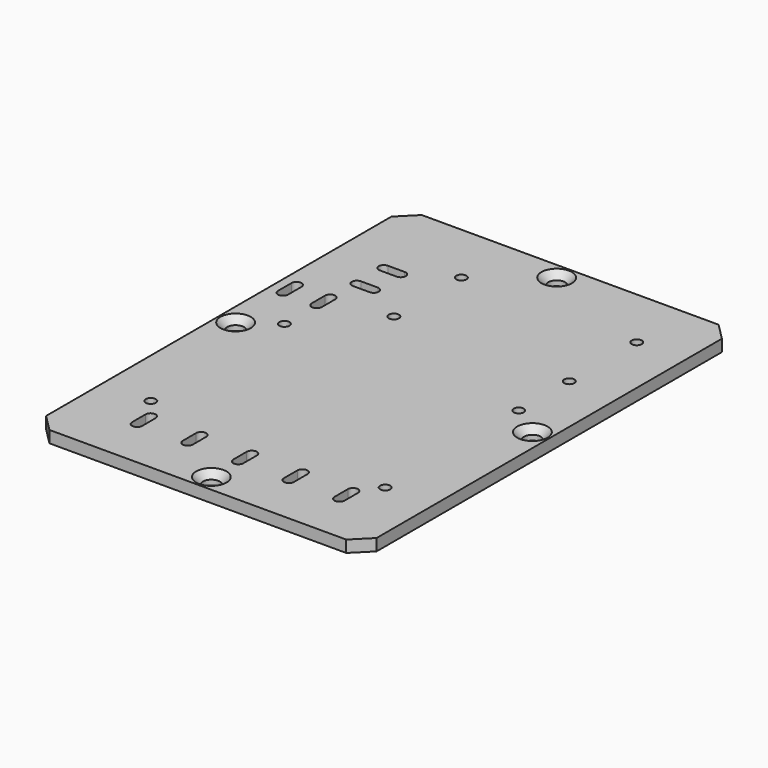
from build123d import *

# Parameters (mm, degrees)
SKETCH_R     = 1.5
SKETCH_R_2   = 2.5
PAD_DEPTH    = 3.5
CHAMFER_SIZE = 2


with BuildPart() as part:
    # Sketch → Pad (new body)
    with BuildSketch(Plane.XY):
        Polygon((-44, 69), (44, 69), (49, 64), (49, -64), (44, -69), (-44, -69), (-49, -64), (-49, 64), align=None)
        with Locations((-17.25, 50.25)):
            Circle(SKETCH_R, mode=Mode.SUBTRACT)
        with Locations((34.75, 50.25)):
            Circle(SKETCH_R, mode=Mode.SUBTRACT)
        with Locations((34.75, 25.25)):
            Circle(SKETCH_R, mode=Mode.SUBTRACT)
        with Locations((-17.25, 25.25)):
            Circle(SKETCH_R, mode=Mode.SUBTRACT)
        with Locations((-34.75, -43)):
            Circle(SKETCH_R, mode=Mode.SUBTRACT)
        with Locations((-34.75, 6.5)):
            Circle(SKETCH_R, mode=Mode.SUBTRACT)
        with Locations((34.75, 6.5)):
            Circle(SKETCH_R, mode=Mode.SUBTRACT)
        with Locations((34.75, -43)):
            Circle(SKETCH_R, mode=Mode.SUBTRACT)
        with Locations((-44, 0)):
            Circle(SKETCH_R_2, mode=Mode.SUBTRACT)
        with Locations((0, 64)):
            Circle(SKETCH_R_2, mode=Mode.SUBTRACT)
        with Locations((44, 0)):
            Circle(SKETCH_R_2, mode=Mode.SUBTRACT)
        with Locations((0, -64)):
            Circle(SKETCH_R_2, mode=Mode.SUBTRACT)
        with BuildLine():
            ThreePointArc((-28.5, -49), (-30, -47.5), (-31.5, -49))
            Line((-31.5, -49), (-31.5, -54))
            ThreePointArc((-31.5, -54), (-30, -55.5), (-28.5, -54))
            Line((-28.5, -54), (-28.5, -49))
        make_face(mode=Mode.SUBTRACT)
        with BuildLine():
            ThreePointArc((-13.5, -49), (-15, -47.5), (-16.5, -49))
            Line((-16.5, -49), (-16.5, -54))
            ThreePointArc((-16.5, -54), (-15, -55.5), (-13.5, -54))
            Line((-13.5, -54), (-13.5, -49))
        make_face(mode=Mode.SUBTRACT)
        with BuildLine():
            ThreePointArc((1.5, -49), (0, -47.5), (-1.5, -49))
            Line((-1.5, -49), (-1.5, -54))
            ThreePointArc((-1.5, -54), (0, -55.5), (1.5, -54))
            Line((1.5, -54), (1.5, -49))
        make_face(mode=Mode.SUBTRACT)
        with BuildLine():
            ThreePointArc((16.5, -49), (15, -47.5), (13.5, -49))
            Line((13.5, -49), (13.5, -54))
            ThreePointArc((13.5, -54), (15, -55.5), (16.5, -54))
            Line((16.5, -54), (16.5, -49))
        make_face(mode=Mode.SUBTRACT)
        with BuildLine():
            ThreePointArc((31.5, -49), (30, -47.5), (28.5, -49))
            Line((28.5, -49), (28.5, -54))
            ThreePointArc((28.5, -54), (30, -55.5), (31.5, -54))
            Line((31.5, -54), (31.5, -49))
        make_face(mode=Mode.SUBTRACT)
        with BuildLine():
            ThreePointArc((-34.25, 44.25), (-35.75, 42.75), (-34.25, 41.25))
            Line((-34.25, 41.25), (-29.25, 41.25))
            ThreePointArc((-29.25, 41.25), (-27.75, 42.75), (-29.25, 44.25))
            Line((-29.25, 44.25), (-34.25, 44.25))
        make_face(mode=Mode.SUBTRACT)
        with BuildLine():
            ThreePointArc((-34.25, 34.25), (-35.75, 32.75), (-34.25, 31.25))
            Line((-34.25, 31.25), (-29.25, 31.25))
            ThreePointArc((-29.25, 31.25), (-27.75, 32.75), (-29.25, 34.25))
            Line((-29.25, 34.25), (-34.25, 34.25))
        make_face(mode=Mode.SUBTRACT)
        with BuildLine():
            ThreePointArc((-43.25, 23.5), (-44.75, 25), (-46.25, 23.5))
            Line((-46.25, 23.5), (-46.25, 18.5))
            ThreePointArc((-46.25, 18.5), (-44.75, 17), (-43.25, 18.5))
            Line((-43.25, 18.5), (-43.25, 23.5))
        make_face(mode=Mode.SUBTRACT)
        with BuildLine():
            ThreePointArc((-33.25, 23.5), (-34.75, 25), (-36.25, 23.5))
            Line((-36.25, 23.5), (-36.25, 18.5))
            ThreePointArc((-36.25, 18.5), (-34.75, 17), (-33.25, 18.5))
            Line((-33.25, 18.5), (-33.25, 23.5))
        make_face(mode=Mode.SUBTRACT)
    extrude(amount=PAD_DEPTH)

    # Chamfer
    chamfer_edges = [part.edges().sort_by_distance(p)[0] for p in [
        (41.5, 0, 3.5),
        (-2.5, -64, 3.5),
        (-46.5, 0, 3.5),
        (-2.5, 64, 3.5),
    ]]
    chamfer(chamfer_edges, length=CHAMFER_SIZE)


solid = part.part
